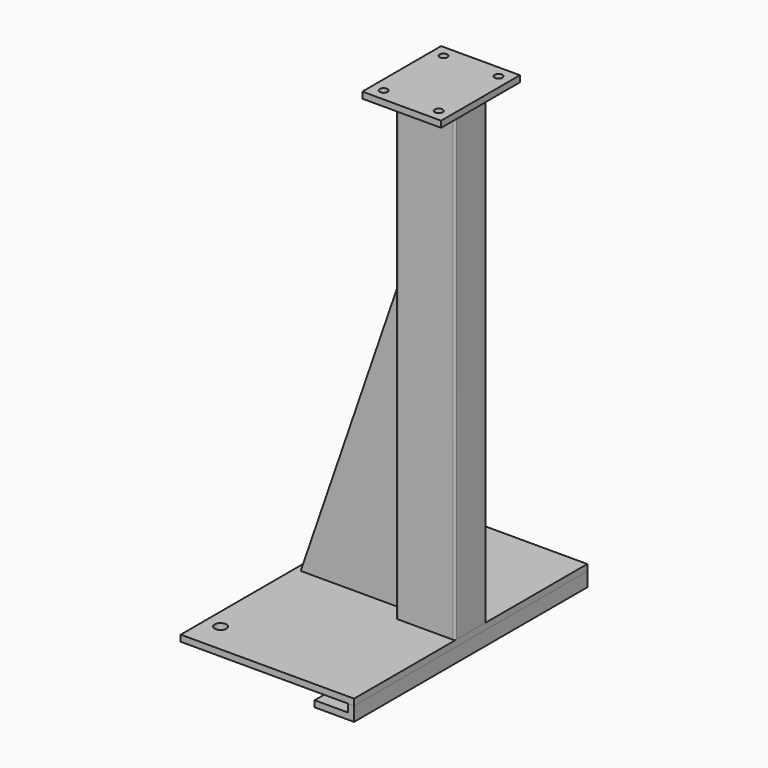
from build123d import *

# Parameters (mm, degrees)
F0_W      = 150
F0_H      = 100
F0_W_2    = 142
F0_H_2    = 92
F1_DEPTH  = 1184
F2_R      = 15
F2_W      = 150
F2_H      = 100
F2_W_2    = 142
F2_H_2    = 92
F3_DEPTH  = 16
F6_DEPTH  = 8
F8_DEPTH  = 370
F9_W      = 200
F9_H      = 250
F9_R      = 10
F9_W_2    = 150
F9_H_2    = 100
F9_W_3    = 142
F9_H_3    = 92
F10_DEPTH = 16
F11_R     = 5


with BuildPart() as f1:
    # F0 (on Top) → F1 (new body)
    with BuildSketch(Plane.XY):
        with Locations((-75, 50)):
            Rectangle(F0_W, F0_H)
        with Locations((-75, 50)):
            Rectangle(F0_W_2, F0_H_2, mode=Mode.SUBTRACT)
    extrude(amount=-F1_DEPTH)

    # F11
    f11_edges = [f1.edges().sort_by_distance(p)[0] for p in [
        (0, 0, -592),
        (-150, 0, -592),
        (-150, 100, -592),
        (0, 100, -592),
    ]]
    fillet(f11_edges, radius=F11_R)


with BuildPart() as f3:
    # F2 (on face) → F3 (new body)
    with BuildSketch(Plane(origin=(0, 0, -1184), x_dir=(1, 0, 0), z_dir=(0, 0, -1))):
        Polygon((-150, 0), (0, 0), (0, 320), (-440, 320), (-440, -420), (0, -420), (0, -100), (-150, -100), align=None)
        with Locations((-400, -343.5)):
            Circle(F2_R, mode=Mode.SUBTRACT)
        with Locations((-400, 243.5)):
            Circle(F2_R, mode=Mode.SUBTRACT)
        with Locations((-75, -50)):
            Rectangle(F2_W, F2_H)
        with Locations((-75, -50)):
            Rectangle(F2_W_2, F2_H_2, mode=Mode.SUBTRACT)
        with Locations((-75, -50)):
            Rectangle(F2_W_2, F2_H_2)
    extrude(amount=F3_DEPTH)


with BuildPart() as f6:
    # F5 (on offset) → F6 (new body, symmetric)
    with BuildSketch(Plane.XZ.offset(-50)):
        Polygon((-425, -1184), (-150, -1184), (-150, -384), align=None)
    extrude(amount=F6_DEPTH, both=True)


with BuildPart() as f8:
    # F7 (on offset) → F8 (new body, symmetric)
    with BuildSketch(Plane.XZ.offset(-50)):
        Polygon((0, -1236), (0, -1200), (-16, -1200), (-16, -1220), (-100, -1220), (-100, -1236), align=None)
    extrude(amount=F8_DEPTH, both=True)


with BuildPart() as f10:
    # F9 (on face) → F10 (new body)
    with BuildSketch(Plane.XY):
        with Locations((-75, 50)):
            Rectangle(F9_W, F9_H)
        with Locations((-145, -45)):
            Circle(F9_R, mode=Mode.SUBTRACT)
        with Locations((-5, -45)):
            Circle(F9_R, mode=Mode.SUBTRACT)
        with Locations((-145, 145)):
            Circle(F9_R, mode=Mode.SUBTRACT)
        with Locations((-75, 50)):
            Rectangle(F9_W_2, F9_H_2, mode=Mode.SUBTRACT)
        with Locations((-5, 145)):
            Circle(F9_R, mode=Mode.SUBTRACT)
        with Locations((-75, 50)):
            Rectangle(F9_W_2, F9_H_2)
        with Locations((-75, 50)):
            Rectangle(F9_W_3, F9_H_3, mode=Mode.SUBTRACT)
        with Locations((-75, 50)):
            Rectangle(F9_W_3, F9_H_3)
    extrude(amount=F10_DEPTH)


solid = Compound([f1.part, f3.part, f6.part, f8.part, f10.part])
